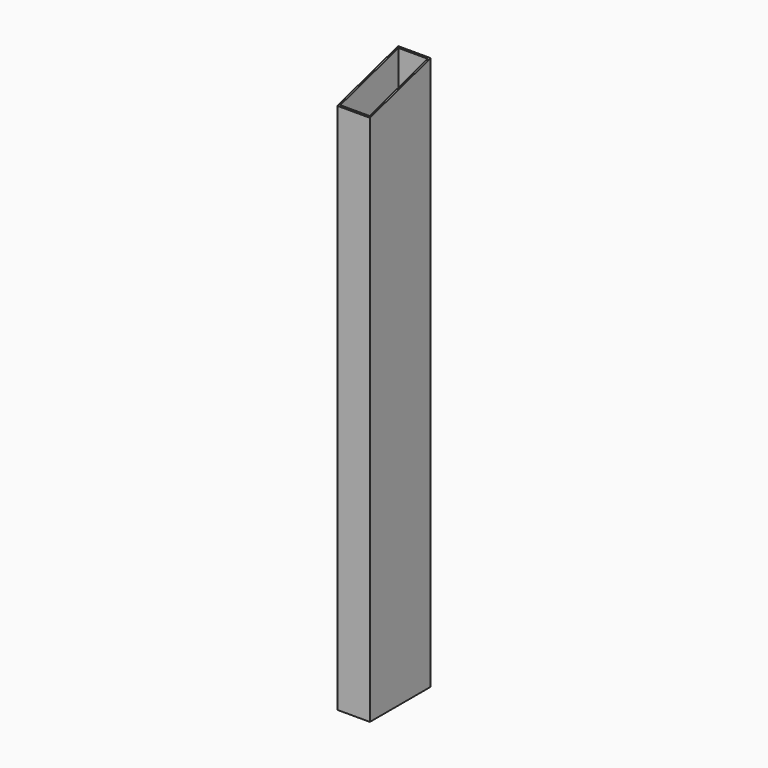
from build123d import *

# Parameters (mm, degrees)
F1_DEPTH = 60
F2_W     = 54
F2_H     = 134
F3_DEPTH = 1020.001


with BuildPart() as f1:
    # F0 (on Right) → F1 (new body)
    with BuildSketch(Plane.YZ):
        Polygon((0, 980), (0, 0), (140, 0), (140, 1020), align=None)
    extrude(amount=F1_DEPTH)

    # F2 (on face) → F3 (cut, through all)
    with BuildSketch(Plane(origin=(0, 0, 0), x_dir=(1, 0, 0), z_dir=(0, 0, -1))):
        with Locations((30, -70)):
            Rectangle(F2_W, F2_H)
    extrude(amount=-F3_DEPTH, mode=Mode.SUBTRACT)


solid = f1.part
